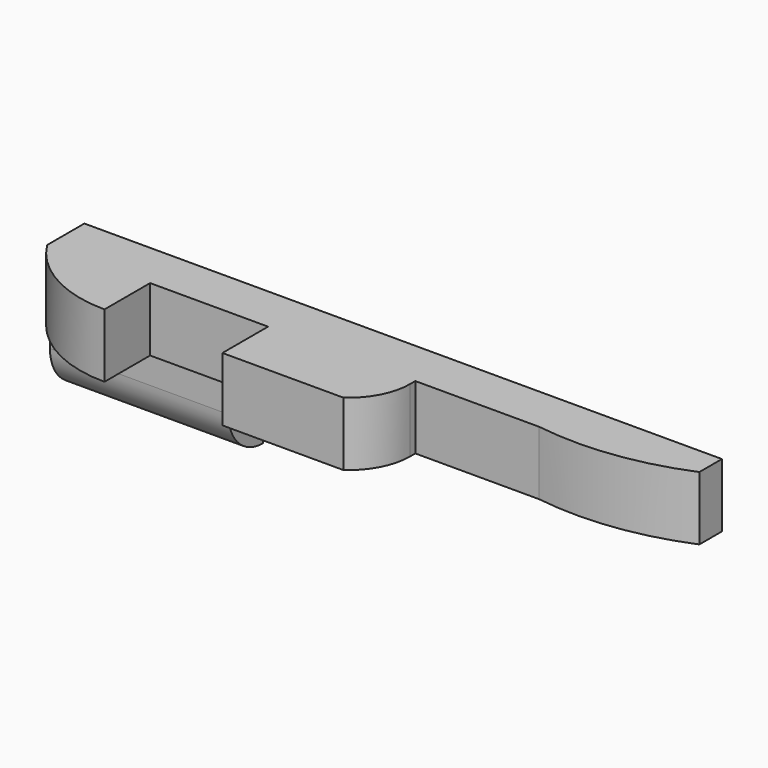
from build123d import *

# Parameters (mm, degrees)
F2_DEPTH = 20
F3_DEPTH = 56
F4_DEPTH = 52


with BuildPart() as f2:
    # F0 (on Top) → F2 (new body)
    with BuildSketch(Plane.XY):
        with BuildLine():
            Line((200, 0), (0, 0))
            Line((0, 0), (0, -14.61))
            ThreePointArc((0, -14.61), (13.843459, -27.728929), (32.309226, -32.5))
            Line((32.309226, -32.5), (32.309226, -14.61))
            Line((32.309226, -14.61), (69.309226, -14.61))
            Line((69.309226, -14.61), (69.309226, -32.5))
            Line((69.309226, -32.5), (107.261054, -32.5))
            ThreePointArc((107.261054, -32.5), (113.322375, -25.56096), (115.506455, -16.61))
            Line((115.506455, -16.61), (115.506455, -14.61))
            Line((115.506455, -14.61), (154.339641, -14.61))
            ThreePointArc((154.339641, -14.61), (177.560637, -14.834695), (200, -8.85639))
            Line((200, -8.85639), (200, 0))
        make_face()
    extrude(amount=-F2_DEPTH)

    # F1 (on Right) → F3 (join)
    with BuildSketch(Plane.YZ):
        with BuildLine():
            Line((0, -38.5), (0, -19.5))
            ThreePointArc((0, -19.5), (-9.5, -29), (0, -38.5))
        make_face()
        with BuildLine():
            Line((0, -19.5), (0, -11.71401))
            Line((0, -11.71401), (-13.5, -11.71401))
            Line((-13.5, -11.71401), (-13.5, -29))
            ThreePointArc((-13.5, -29), (-9.545942, -38.545942), (0, -42.5))
            Line((0, -42.5), (0, -38.5))
            ThreePointArc((0, -38.5), (-9.5, -29), (0, -19.5))
        make_face()
    extrude(amount=F3_DEPTH)

    # F1 (on Right) → F4 (cut)
    with BuildSketch(Plane.YZ):
        with BuildLine():
            Line((0, -38.5), (0, -19.5))
            ThreePointArc((0, -19.5), (-9.5, -29), (0, -38.5))
        make_face()
    extrude(amount=-F4_DEPTH, mode=Mode.SUBTRACT)


solid = f2.part
